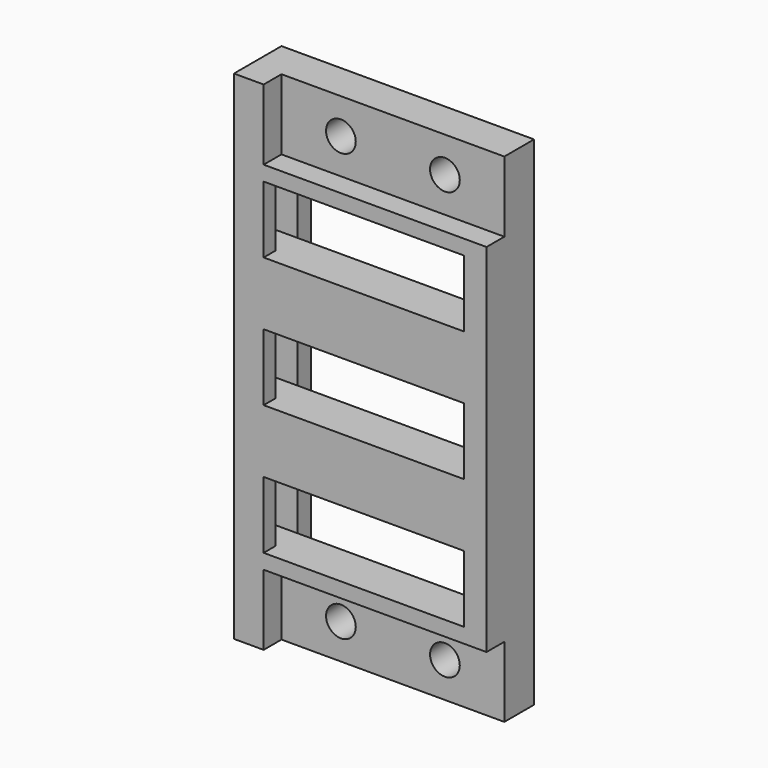
from build123d import *

# Parameters (mm, degrees)
SKETCH_W        = 15
SKETCH_H        = 33.5
PAD_DEPTH       = 12
SKETCH001_R     = 1
POCKET_DEPTH    = 12.001
SKETCH002_W     = 24.931972
SKETCH002_H     = 6.15048
SKETCH002_W_2   = 25.150666
SKETCH002_H_2   = 6.153969
POCKET001_DEPTH = 9.5
SKETCH003_W     = 17.12865
SKETCH003_H     = 22.5
POCKET002_DEPTH = 1
SKETCH004_W     = 20.925805
SKETCH004_H     = 24.9
POCKET003_DEPTH = 0.5
SKETCH005_W     = 29.02304
SKETCH005_H     = 9.956954
POCKET004_DEPTH = 15.001
SKETCH006_W     = 24.9
SKETCH006_H     = 4.282043
POCKET005_DEPTH = 14.2
SKETCH007_W     = 15.383407
SKETCH007_H     = 4.5
POCKET006_DEPTH = 2.851
SKETCH008_W     = 33.5
SKETCH008_H     = 4
PAD001_DEPTH    = 2
SKETCH009_W     = 4.5
SKETCH009_H     = 1.85
POCKET007_DEPTH = 2


with BuildPart() as part:
    # Sketch → Pad (new body)
    with BuildSketch(Plane.XZ):
        Rectangle(SKETCH_W, SKETCH_H)
    extrude(amount=PAD_DEPTH)

    # Sketch001 (on Face6 of Pad) → Pocket (cut, through all)
    with BuildSketch(Plane.XZ.offset(12)):
        with Locations((-3.5, 14.375)):
            Circle(SKETCH001_R)
        with Locations((3.5, 14.375)):
            Circle(SKETCH001_R)
        with Locations((-3.5, -14.375)):
            Circle(SKETCH001_R)
        with Locations((3.5, -14.375)):
            Circle(SKETCH001_R)
    extrude(amount=-POCKET_DEPTH, mode=Mode.SUBTRACT)

    # Sketch002 (on Face5 of Pocket) → Pocket001 (cut)
    with BuildSketch(Plane.XZ.offset(12)):
        with Locations((0.203806, 15.07524)):
            Rectangle(SKETCH002_W, SKETCH002_H)
        with Locations((0.641204, -15.0769845)):
            Rectangle(SKETCH002_W_2, SKETCH002_H_2)
    extrude(amount=-POCKET001_DEPTH, mode=Mode.SUBTRACT)

    # Sketch003 (on Face2 of Pocket001) → Pocket002 (cut)
    with BuildSketch(Plane(origin=(0, 0, 0), x_dir=(1, 0, 0), z_dir=(0, 1, 0))):
        with Locations((-3.064325, 0)):
            Rectangle(SKETCH003_W, SKETCH003_H)
    extrude(amount=-POCKET002_DEPTH, mode=Mode.SUBTRACT)

    # Sketch004 (on Face2 of Pocket002) → Pocket003 (cut)
    with BuildSketch(Plane(origin=(0, 0, 0), x_dir=(1, 0, 0), z_dir=(0, 1, 0))):
        with Locations((-3.7629025, 0)):
            Rectangle(SKETCH004_W, SKETCH004_H)
    extrude(amount=-POCKET003_DEPTH, mode=Mode.SUBTRACT)

    # Sketch005 (on Face1 of Pocket003) → Pocket004 (cut, through all)
    with BuildSketch(Plane(origin=(-7.5, 0, 0), x_dir=(0, 0, -1), z_dir=(-1, 0, 0))):
        with Locations((0.508849, 8.978477)):
            Rectangle(SKETCH005_W, SKETCH005_H)
    extrude(amount=-POCKET004_DEPTH, mode=Mode.SUBTRACT)

    # Sketch006 (on Face1 of Pocket004) → Pocket005 (cut)
    with BuildSketch(Plane(origin=(-7.5, 0, 0), x_dir=(0, 0, -1), z_dir=(-1, 0, 0))):
        with Locations((0, -0.9910215)):
            Rectangle(SKETCH006_W, SKETCH006_H)
    extrude(amount=-POCKET005_DEPTH, mode=Mode.SUBTRACT)

    # Sketch007 (on Face5 of Pocket005) → Pocket006 (cut, through all)
    with BuildSketch(Plane(origin=(0, -1.15, 0), x_dir=(1, 0, 0), z_dir=(0, 1, 0))):
        with Locations((-1.6917035, 8.75)):
            Rectangle(SKETCH007_W, SKETCH007_H)
        with Locations((-1.6917035, 0)):
            Rectangle(SKETCH007_W, SKETCH007_H)
        with Locations((-1.6917035, -8.75)):
            Rectangle(SKETCH007_W, SKETCH007_H)
    extrude(amount=-POCKET006_DEPTH, mode=Mode.SUBTRACT)

    # Sketch008 (on Face13 of Pocket006) → Pad001 (join)
    with BuildSketch(Plane(origin=(-7.5, 0, 0), x_dir=(0, 0, -1), z_dir=(-1, 0, 0))):
        with Locations((0, 2)):
            Rectangle(SKETCH008_W, SKETCH008_H)
    extrude(amount=PAD001_DEPTH)

    # Sketch009 (on Face16 of Pad001) → Pocket007 (cut)
    with BuildSketch(Plane(origin=(-9.5, 0, 0), x_dir=(0, 0, -1), z_dir=(-1, 0, 0))):
        with Locations((-8.75, 2.075)):
            Rectangle(SKETCH009_W, SKETCH009_H)
        with Locations((0, 2.075)):
            Rectangle(SKETCH009_W, SKETCH009_H)
        with Locations((8.75, 2.075)):
            Rectangle(SKETCH009_W, SKETCH009_H)
    extrude(amount=-POCKET007_DEPTH, mode=Mode.SUBTRACT)


solid = part.part
